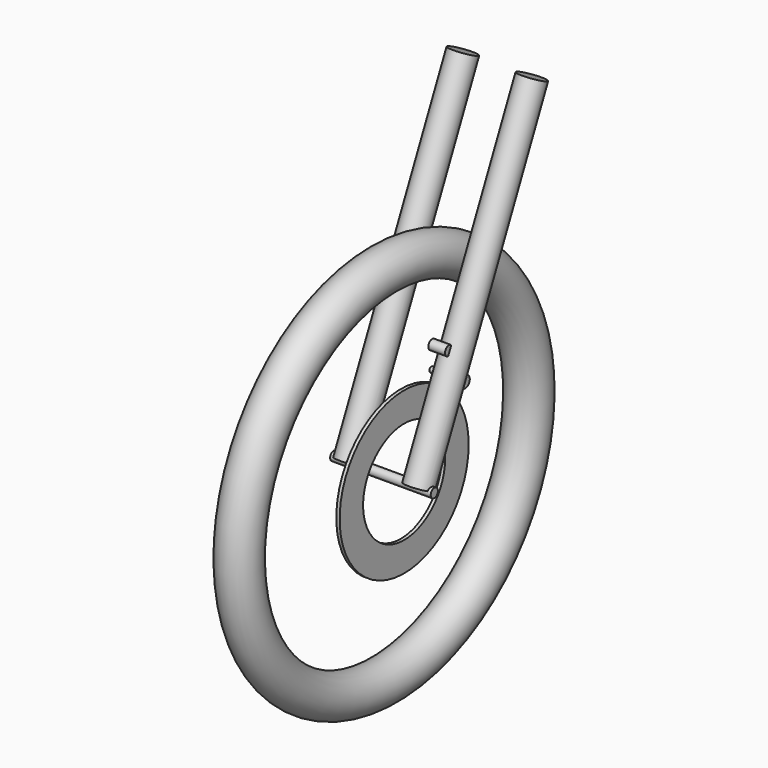
from build123d import *

# Parameters (mm, degrees)
F0_R      = 30
F2_R      = 6.7180073403
F3_DEPTH  = 75
F5_R      = 120.25
F5_R_2    = 76.5
F6_DEPTH  = 5.03
F9_R      = 19.75
F10_DEPTH = 500
F12_R     = 7.15
F13_DEPTH = 25
F12_R_2   = 8.6
F12_R_3   = 7.2
F15_DEPTH = 25.4


with BuildPart() as f1:
    # F0 (on Front) → F1 (revolve)
    with BuildSketch(Plane.XZ):
        with Locations((0, 270)):
            Circle(F0_R)
    revolve(axis=Axis((18.4466056526, 0, 0), (1, 0, 0)))


with BuildPart() as f3:
    # F2 (on Right) → F3 (new body, symmetric)
    with BuildSketch(Plane.YZ):
        Circle(F2_R)
    extrude(amount=F3_DEPTH, both=True)

    # F9 (on line) → F10 (join)
    with BuildSketch(Plane(origin=(0, 0, 0), x_dir=(1, 0, 0), z_dir=(0, 0.4226182617, 0.906307787))):
        with Locations((-51.43, 0)):
            Circle(F9_R)
        with Locations((51.43, 0)):
            Circle(F9_R)
    extrude(amount=F10_DEPTH)


with BuildPart() as f6:
    # F5 (on offset) → F6 (new body)
    with BuildSketch(Plane.YZ.offset(25)):
        Circle(F5_R)
        Circle(F5_R_2, mode=Mode.SUBTRACT)
    extrude(amount=F6_DEPTH)


with BuildPart() as f13:
    # F12 (on plane+point) → F13 (new body)
    with BuildSketch(Plane.YZ.offset(30.68)):
        with Locations((98.1404922951, 158.0515998422)):
            Circle(F12_R)
    extrude(amount=F13_DEPTH)


with BuildPart() as f13b:
    # F12 (on plane+point) → F13, piece 2 (new body)
    with BuildSketch(Plane.YZ.offset(30.68)):
        with Locations((81.7151730176, 106.263977898)):
            Circle(F12_R_2)
    extrude(amount=F13_DEPTH)

    # F14 (on face) → F15 (join)
    with BuildSketch(Plane(origin=(30.68, 0, 0), x_dir=(0, -1, 0), z_dir=(-1, 0, 0))):
        with BuildLine():
            Line((-79.3377826799, 103.1723739159), (-84.0925633553, 109.3555818801))
            ThreePointArc((-84.0925633553, 109.3555818801), (-84.8067769997, 103.8865875603), (-79.3377826799, 103.1723739159))
        make_face()
        with BuildLine():
            ThreePointArc((-79.3377826799, 103.1723739159), (-78.2164716645, 104.5408734782), (-77.8151730176, 106.263977898))
            ThreePointArc((-77.8151730176, 106.263977898), (-79.9920685978, 109.7626792511), (-84.0925633553, 109.3555818801))
            Line((-84.0925633553, 109.3555818801), (-79.3377826799, 103.1723739159))
        make_face()
    extrude(amount=F15_DEPTH)


with BuildPart() as f13c:
    # F12 (on plane+point) → F13, piece 3 (new body)
    with BuildSketch(Plane.YZ.offset(30.68)):
        with Locations((51.3404922951, 159.6244386438)):
            Circle(F12_R_3)
    extrude(amount=F13_DEPTH)


solid = Compound([f1.part, f3.part, f6.part, f13.part, f13b.part, f13c.part])
